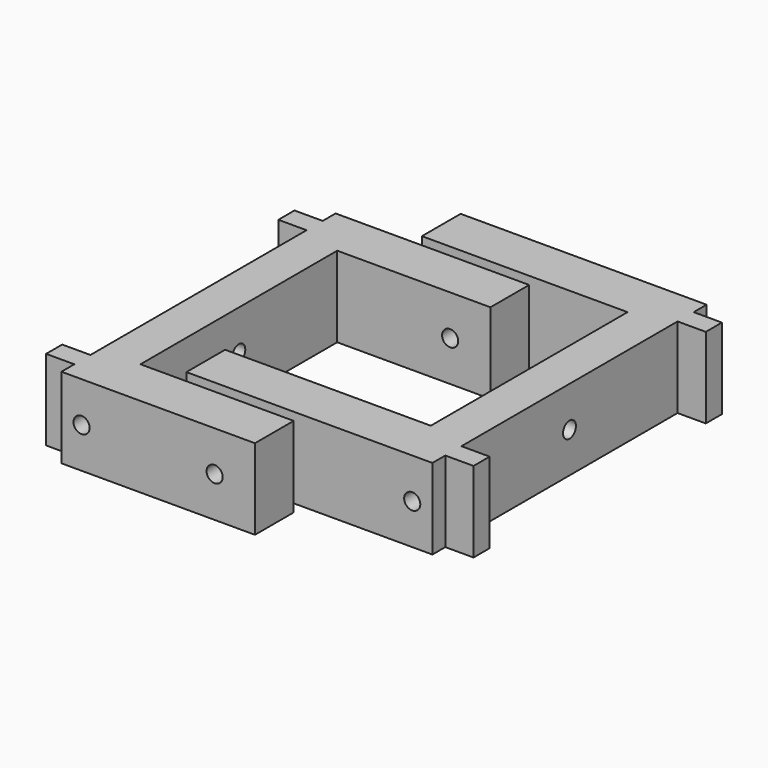
from build123d import *

# Parameters (mm, degrees)
PAD_DEPTH       = 20
SKETCH004_R     = 2
POCKET002_DEPTH = 48.001
SKETCH005_R     = 2
POCKET003_DEPTH = 85.001
PAD001_DEPTH    = 20
SKETCH007_R     = 2
POCKET004_DEPTH = 61.001
SKETCH008_R     = 2
POCKET005_DEPTH = 85.001


with BuildPart() as soporte_agujero_superior_lateral:
    # Sketch → Pad (new body)
    with BuildSketch(Plane.XY):
        Polygon((-10, -42.5), (38, -42.5), (38, -30.5), (0, -30.5), (0, 30.5), (38, 30.5), (38, 42.5), (-10, 42.5), (-10, 38.5), (-17, 38.5), (-17, 33.5), (-10, 33.5), (-10, -33.5), (-17, -33.5), (-17, -38.5), (-10, -38.5), align=None)
    extrude(amount=PAD_DEPTH)

    # Sketch004 → Pocket002 (cut, through all)
    with BuildSketch(Plane(origin=(-10, 0, 0), x_dir=(0, -1, 0), z_dir=(-1, 0, 0))):
        with Locations((0, 10)):
            Circle(SKETCH004_R)
    extrude(amount=-POCKET002_DEPTH, mode=Mode.SUBTRACT)

    # Sketch005 → Pocket003 (cut, through all)
    with BuildSketch(Plane.XZ.offset(42.5)):
        with Locations((-5, 10)):
            Circle(SKETCH005_R)
        with Locations((28, 10)):
            Circle(SKETCH005_R)
    extrude(amount=-POCKET003_DEPTH, mode=Mode.SUBTRACT)


with BuildPart() as soporte_agujero_superior_lateral001:
    # Sketch006 → Pad001 (new body)
    with BuildSketch(Plane(origin=(60, 15, 0), x_dir=(-1, 0, 0), z_dir=(0, 0, 1))):
        Polygon((-10, -42.5), (51, -42.5), (51, -30.5), (0, -30.5), (0, 30.5), (51, 30.5), (51, 42.5), (-10, 42.5), (-10, 38.5), (-17, 38.5), (-17, 33.5), (-10, 33.5), (-10, -33.5), (-17, -33.5), (-17, -38.5), (-10, -38.5), align=None)
    extrude(amount=PAD001_DEPTH)

    # Sketch007 → Pocket004 (cut, through all)
    with BuildSketch(Plane(origin=(70, 15, 0), x_dir=(0, 1, 0), z_dir=(1, 0, 0))):
        with Locations((0, 10)):
            Circle(SKETCH007_R)
    extrude(amount=-POCKET004_DEPTH, mode=Mode.SUBTRACT)

    # Sketch008 → Pocket005 (cut, through all)
    with BuildSketch(Plane(origin=(60, 57.5, 0), x_dir=(-1, 0, 0), z_dir=(0, 1, 0))):
        with Locations((-5, 10)):
            Circle(SKETCH008_R)
        with Locations((41, 10)):
            Circle(SKETCH008_R)
    extrude(amount=-POCKET005_DEPTH, mode=Mode.SUBTRACT)


solid = Compound([soporte_agujero_superior_lateral.part, soporte_agujero_superior_lateral001.part])
